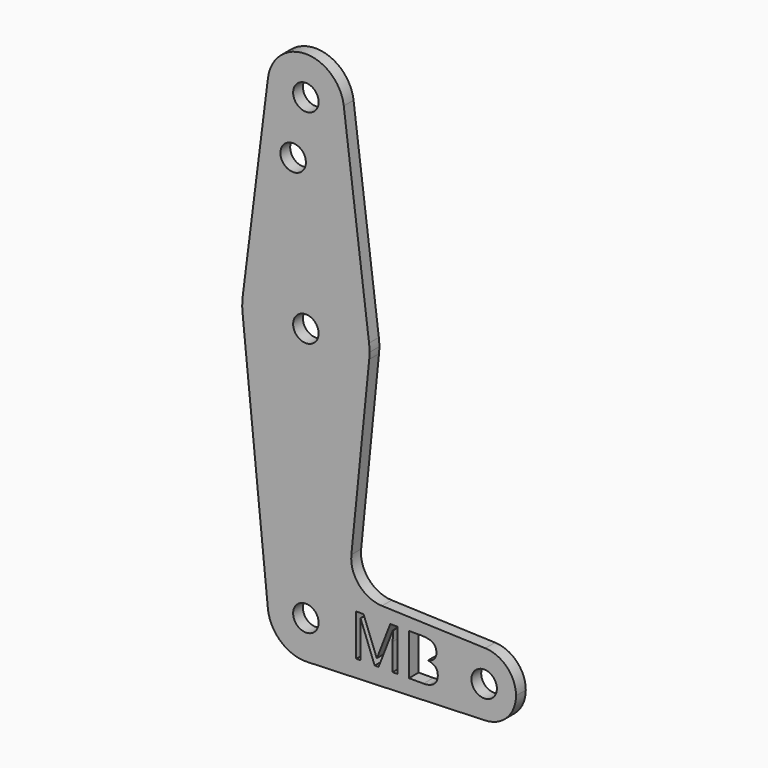
from build123d import *

# Parameters (mm, degrees)
F0_R     = 3.175
F1_DEPTH = 3.048


with BuildPart() as f1:
    # F0 (on Front) → F1 (new body)
    with BuildSketch(Plane.XZ):
        with BuildLine():
            ThreePointArc((44.7334821429, -7.9324362036), (50.1620069047, -5.5115227815), (52.3875, 0))
            ThreePointArc((52.3875, 0), (50.1620069047, 5.5115227815), (44.7334821429, 7.9324362036))
            ThreePointArc((44.7334821429, 7.9324362036), (36.5125, 0), (44.7334821429, -7.9324362036))
        make_face()
        with Locations((44.45, 0)):
            Circle(F0_R, mode=Mode.SUBTRACT)
        with BuildLine():
            ThreePointArc((-9.4772553384, -0.9525), (-6.2623833816, -7.1769199091), (0.3401785714, -9.5189234444))
            ThreePointArc((0.3401785714, -9.5189234444), (6.8544082857, -6.6138273378), (9.525, 0))
            ThreePointArc((9.525, 0), (-0.4768479324, 9.5130563464), (-9.4772553384, -0.9525))
        make_face()
        Circle(F0_R, mode=Mode.SUBTRACT)
        with BuildLine():
            ThreePointArc((9.4502929642, 115.490625), (0, 123.825), (-9.4502929642, 115.490625))
            ThreePointArc((-9.4502929642, 115.490625), (-0.596483242, 104.7936951058), (9.525, 114.3))
            ThreePointArc((9.525, 114.3), (9.5063048942, 114.896483242), (9.4502929642, 115.490625))
        make_face()
        with Locations((0, 114.3)):
            Circle(F0_R, mode=Mode.SUBTRACT)
        with BuildLine():
            Line((-9.4502929642, 115.490625), (-15.7504882737, 65.484375))
            ThreePointArc((-15.7504882737, 65.484375), (0, 79.375), (15.7504882737, 65.484375))
            Line((15.7504882737, 65.484375), (9.4502929642, 115.490625))
            ThreePointArc((9.4502929642, 115.490625), (9.5063048942, 114.896483242), (9.525, 114.3))
            ThreePointArc((9.525, 114.3), (-0.596483242, 104.7936951058), (-9.4502929642, 115.490625))
        make_face()
        with Locations((-3.175, 100.0252)):
            Circle(F0_R, mode=Mode.SUBTRACT)
        with BuildLine():
            ThreePointArc((-15.7954255641, 61.9125), (0, 47.625), (15.7954255641, 61.9125))
            ThreePointArc((15.7954255641, 61.9125), (15.8550939106, 62.7052534459), (15.875, 63.5))
            ThreePointArc((15.875, 63.5), (15.8438414904, 64.4941387366), (15.7504882737, 65.484375))
            ThreePointArc((15.7504882737, 65.484375), (0, 79.375), (-15.7504882737, 65.484375))
            ThreePointArc((-15.7504882737, 65.484375), (-15.8737438155, 63.6997054867), (-15.7954255641, 61.9125))
        make_face()
        with Locations((0, 63.5)):
            Circle(F0_R, mode=Mode.SUBTRACT)
        with BuildLine():
            ThreePointArc((44.7334821429, -7.9324362036), (36.5125, 0), (44.7334821429, 7.9324362036))
            Line((44.7334821429, 7.9324362036), (18.9676000005, 8.8532337108))
            ThreePointArc((18.9676000005, 8.8532337108), (13.2611998974, 11.5713591498), (11.3411865923, 17.5933818124))
            Line((11.3411865923, 17.5933818124), (15.7954255641, 61.9125))
            ThreePointArc((15.7954255641, 61.9125), (0, 47.625), (-15.7954255641, 61.9125))
            Line((-15.7954255641, 61.9125), (-9.4772553384, -0.9525))
            ThreePointArc((-9.4772553384, -0.9525), (-0.4768479324, 9.5130563464), (9.525, 0))
            ThreePointArc((9.525, 0), (6.8544082857, -6.6138273378), (0.3401785714, -9.5189234444))
            Line((0.3401785714, -9.5189234444), (44.7334821429, -7.9324362036))
        make_face()
        with BuildLine():
            Line((18.1261931211, -4.8397090286), (17.1533066209, -4.8397090286))
            Line((17.1533066209, -4.8397090286), (13.6300027063, 4.3663431352))
            Line((13.6300027063, 4.3663431352), (13.5731752238, 4.3663431352))
            add(Edge.make_bspline(
                [(13.5731752238, 4.3663431352), (13.673191593, 3.272982372), (13.673191593, 1.7659175363)],
                knots=[0, 0, 0, 1, 1, 1], degree=2))
            Line((13.673191593, 1.7659175363), (13.673191593, -4.8397090286))
            Line((13.673191593, -4.8397090286), (12.5570998369, -4.8397090286))
            Line((12.5570998369, -4.8397090286), (12.5570998369, 5.5460816717))
            Line((12.5570998369, 5.5460816717), (14.3755792766, 5.5460816717))
            Line((14.3755792766, 5.5460816717), (17.6647539633, -3.0212295888))
            Line((17.6647539633, -3.0212295888), (17.7215814458, -3.0212295888))
            Line((17.7215814458, -3.0212295888), (21.0380333241, 5.5460816717))
            Line((21.0380333241, 5.5460816717), (22.842874168, 5.5460816717))
            Line((22.842874168, 5.5460816717), (22.842874168, -4.8397090286))
            Line((22.842874168, -4.8397090286), (21.6358584399, -4.8397090286))
            Line((21.6358584399, -4.8397090286), (21.6358584399, 1.8522953097))
            add(Edge.make_bspline(
                [(21.6358584399, 1.8522953097), (21.6358584399, 3.0024835554), (21.7358748091, 4.3527045394)],
                knots=[0, 0, 0, 1, 1, 1], degree=2))
            Line((21.7358748091, 4.3527045394), (21.6790473266, 4.3527045394))
            Line((21.6790473266, 4.3527045394), (18.1261931211, -4.8397090286))
        make_face(mode=Mode.SUBTRACT)
        with BuildLine():
            Line((25.6910675905, -4.8397090286), (25.6910675905, 5.5460816717))
            Line((25.6910675905, 5.5460816717), (28.6256387865, 5.5460816717))
            add(Edge.make_bspline(
                [(28.6256387865, 5.5460816717), (30.6918860499, 5.5460816717), (31.6159009152, 4.9277986622)],
                knots=[0, 0, 0, 1, 1, 1], degree=2))
            add(Edge.make_bspline(
                [(31.6159009152, 4.9277986622), (32.5399157805, 4.3095156527), (32.5399157805, 2.9752063638)],
                knots=[0, 0, 0, 1, 1, 1], degree=2))
            add(Edge.make_bspline(
                [(32.5399157805, 2.9752063638), (32.5399157805, 2.0500549488), (32.0250587892, 1.4499567337)],
                knots=[0, 0, 0, 1, 1, 1], degree=2))
            add(Edge.make_bspline(
                [(32.0250587892, 1.4499567337), (31.5102017978, 0.8498585186), (30.5214036024, 0.6725567732)],
                knots=[0, 0, 0, 1, 1, 1], degree=2))
            Line((30.5214036024, 0.6725567732), (30.5214036024, 0.6020906949))
            add(Edge.make_bspline(
                [(30.5214036024, 0.6020906949), (32.8876999734, 0.1974790195), (32.8876999734, -1.884679939)],
                knots=[0, 0, 0, 1, 1, 1], degree=2))
            add(Edge.make_bspline(
                [(32.8876999734, -1.884679939), (32.8876999734, -3.2758167104), (31.9466368633, -4.0577628695)],
                knots=[0, 0, 0, 1, 1, 1], degree=2))
            add(Edge.make_bspline(
                [(31.9466368633, -4.0577628695), (31.0055737532, -4.8397090286), (29.3143878743, -4.8397090286)],
                knots=[0, 0, 0, 1, 1, 1], degree=2))
            Line((29.3143878743, -4.8397090286), (25.6910675905, -4.8397090286))
        make_face(mode=Mode.SUBTRACT)
    extrude(amount=F1_DEPTH)


solid = f1.part
